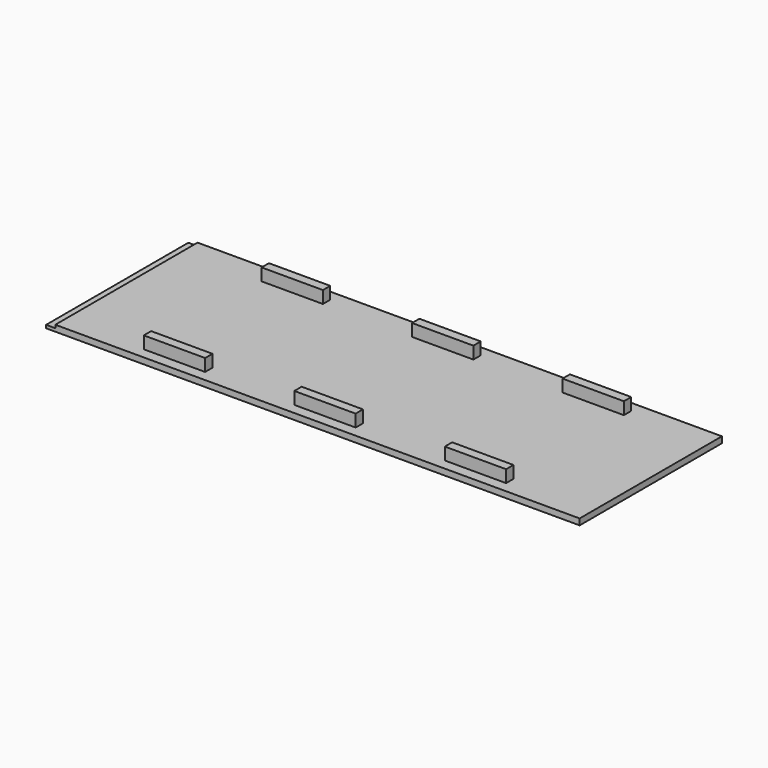
from build123d import *

# Parameters (mm, degrees)
BOX006_W     = 20
BOX006_H     = 3
BOX006_DEPTH = 6
BOX005_W     = 20
BOX005_H     = 3
BOX005_DEPTH = 6
BOX004_W     = 20
BOX004_H     = 3
BOX004_DEPTH = 6
BOX003_W     = 20
BOX003_H     = 3
BOX003_DEPTH = 6
BOX002_W     = 20
BOX002_H     = 3
BOX002_DEPTH = 6
BOX001_W     = 20
BOX001_H     = 3
BOX001_DEPTH = 6
BOX_W        = 171
BOX_H        = 58
BOX_DEPTH    = 2
BOX007_W     = 3
BOX007_H     = 58
BOX007_DEPTH = 1


with BuildPart() as cube006:
    # Box006 → Box006 (new body)
    with BuildSketch(Plane(origin=(127.22, 51.5, 0), x_dir=(1, 0, 0), z_dir=(0, 0, 1))):
        with Locations((10, 1.5)):
            Rectangle(BOX006_W, BOX006_H)
    extrude(amount=BOX006_DEPTH)


with BuildPart() as cube005:
    # Box005 → Box005 (new body)
    with BuildSketch(Plane(origin=(78.15, 51.5, 0), x_dir=(1, 0, 0), z_dir=(0, 0, 1))):
        with Locations((10, 1.5)):
            Rectangle(BOX005_W, BOX005_H)
    extrude(amount=BOX005_DEPTH)


with BuildPart() as cube004:
    # Box004 → Box004 (new body)
    with BuildSketch(Plane(origin=(29.07, 51.5, 0), x_dir=(1, 0, 0), z_dir=(0, 0, 1))):
        with Locations((10, 1.5)):
            Rectangle(BOX004_W, BOX004_H)
    extrude(amount=BOX004_DEPTH)


with BuildPart() as cube003:
    # Box003 → Box003 (new body)
    with BuildSketch(Plane(origin=(127.22, 3.5, 0), x_dir=(1, 0, 0), z_dir=(0, 0, 1))):
        with Locations((10, 1.5)):
            Rectangle(BOX003_W, BOX003_H)
    extrude(amount=BOX003_DEPTH)


with BuildPart() as cube002:
    # Box002 → Box002 (new body)
    with BuildSketch(Plane(origin=(78.15, 3.5, 0), x_dir=(1, 0, 0), z_dir=(0, 0, 1))):
        with Locations((10, 1.5)):
            Rectangle(BOX002_W, BOX002_H)
    extrude(amount=BOX002_DEPTH)


with BuildPart() as cube001:
    # Box001 → Box001 (new body)
    with BuildSketch(Plane(origin=(29.07, 3.5, 0), x_dir=(1, 0, 0), z_dir=(0, 0, 1))):
        with Locations((10, 1.5)):
            Rectangle(BOX001_W, BOX001_H)
    extrude(amount=BOX001_DEPTH)


with BuildPart() as cube:
    # Box → Box (new body)
    with BuildSketch(Plane(origin=(3, 0, 0), x_dir=(1, 0, 0), z_dir=(0, 0, 1))):
        with Locations((85.5, 29)):
            Rectangle(BOX_W, BOX_H)
    extrude(amount=BOX_DEPTH)


with BuildPart() as fusion:
    # Box007 → Box007 (new body)
    with BuildSketch(Plane.XY):
        with Locations((1.5, 29)):
            Rectangle(BOX007_W, BOX007_H)
    extrude(amount=BOX007_DEPTH)

    # Fusion: union Cube006, Cube005, Cube004, Cube003, Cube002, Cube001, Cube
    add(cube006.part)
    add(cube005.part)
    add(cube004.part)
    add(cube003.part)
    add(cube002.part)
    add(cube001.part)
    add(cube.part)


solid = fusion.part
